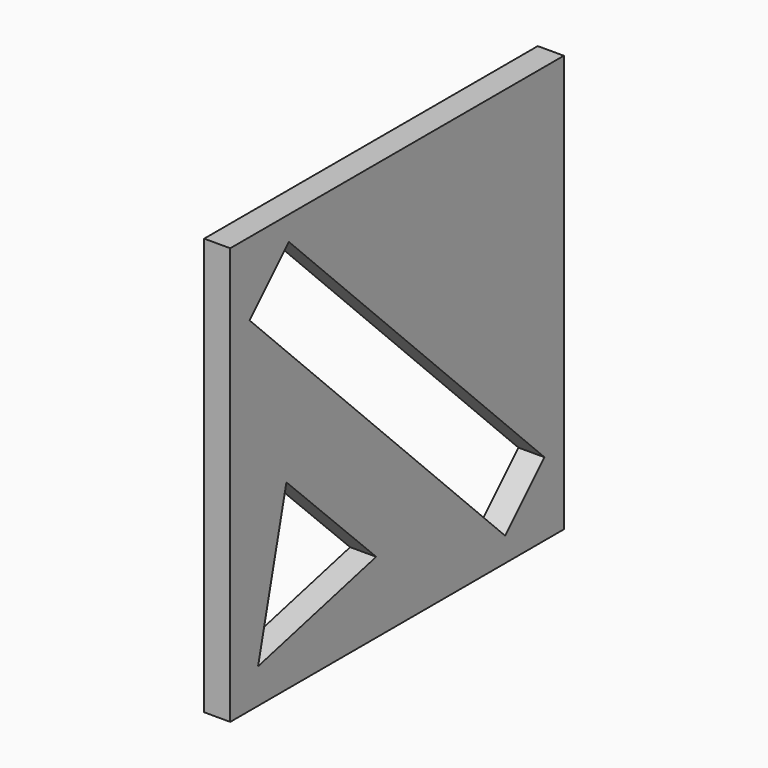
from build123d import *

# Parameters (mm, degrees)
F0_W     = 152.4
F0_H     = 152.4
F1_DEPTH = 9.525


with BuildPart() as f1:
    # F0 (on Right) → F1 (new body)
    with BuildSketch(Plane.YZ):
        with Locations((0.213197, -0.178919)):
            Rectangle(F0_W, F0_H)
        Polygon((-9.311803, -50.352081), (-63.286803, -63.678919), (-50.3178, -9.703919), align=None, mode=Mode.SUBTRACT)
        Polygon((-67.138723, 49.212489), (-49.178211, 67.173002), (67.565118, -49.570328), (49.604606, -67.53084), align=None, mode=Mode.SUBTRACT)
    extrude(amount=F1_DEPTH)


solid = f1.part
